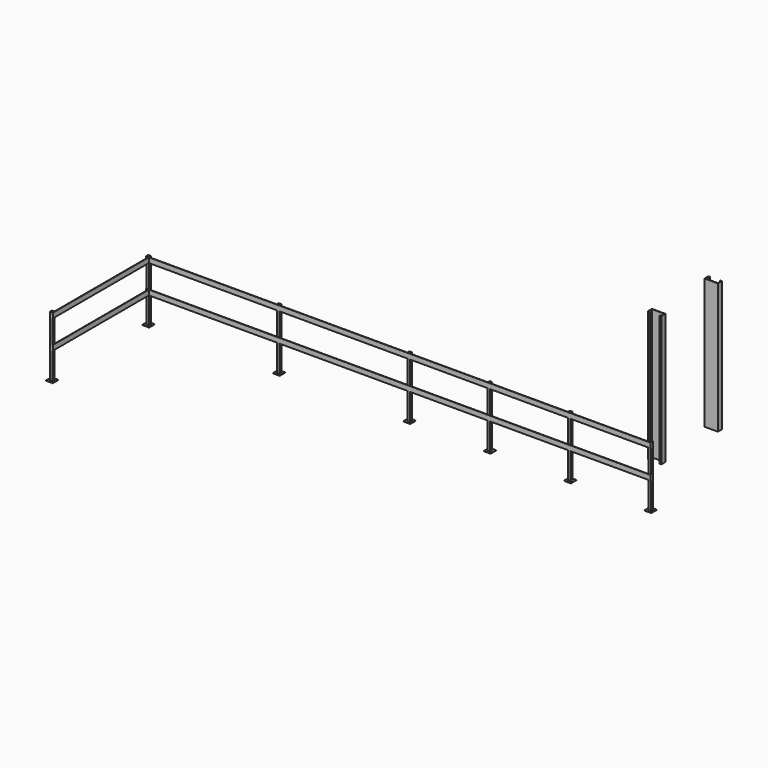
from build123d import *

# Parameters (mm, degrees)
F3_DEPTH  = 1981.2
F0_W      = 38.1
F0_H      = 38.1
F0_W_2    = 31.75
F0_H_2    = 31.75
F4_DEPTH  = 914.4
F5_W      = 101.6
F5_H      = 101.6
F6_DEPTH  = 6.35
F8_W      = 7658.1
F8_H      = 76.2
F9_DEPTH  = 6.35
F11_W     = 1822.45
F11_H     = 76.2
F12_DEPTH = 6.35


with BuildPart() as f3:
    # F2 (on offset) → F3 (new body)
    with BuildSketch(Plane.XY.offset(609.6)):
        Polygon((-76.2, 76.2), (-76.2, 82.55), (-95.25, 82.55), (-95.25, 146.05), (95.25, 146.05), (95.25, 82.55), (76.2, 82.55), (76.2, 76.2), (101.6, 76.2), (101.6, 152.4), (-101.6, 152.4), (-101.6, 76.2), align=None)
        Polygon((101.6, 1149.35), (101.6, 1225.55), (76.2, 1225.55), (76.2, 1219.2), (95.25, 1219.2), (95.25, 1155.7), (-95.25, 1155.7), (-95.25, 1219.2), (-76.2, 1219.2), (-76.2, 1225.55), (-101.6, 1225.55), (-101.6, 1149.35), align=None)
    extrude(amount=F3_DEPTH)


with BuildPart() as f4:
    # F0 (on Top) → F4 (new body)
    with BuildSketch(Plane.XY):
        with Locations((-7620, -1828.8)):
            Rectangle(F0_W, F0_H)
        with Locations((-7620, -1828.8)):
            Rectangle(F0_W_2, F0_H_2, mode=Mode.SUBTRACT)
        with Locations((-7620, 0)):
            Rectangle(F0_W, F0_H)
        with Locations((-7620, 0)):
            Rectangle(F0_W_2, F0_H_2, mode=Mode.SUBTRACT)
        with Locations((-5638.8, 0)):
            Rectangle(F0_W, F0_H)
        with Locations((-5638.8, 0)):
            Rectangle(F0_W_2, F0_H_2, mode=Mode.SUBTRACT)
        with Locations((-3657.6, 0)):
            Rectangle(F0_W, F0_H)
        with Locations((-3657.6, 0)):
            Rectangle(F0_W_2, F0_H_2, mode=Mode.SUBTRACT)
        with Locations((-2438.4, 0)):
            Rectangle(F0_W, F0_H)
        with Locations((-2438.4, 0)):
            Rectangle(F0_W_2, F0_H_2, mode=Mode.SUBTRACT)
        with Locations((-1219.2, 0)):
            Rectangle(F0_W, F0_H)
        with Locations((-1219.2, 0)):
            Rectangle(F0_W_2, F0_H_2, mode=Mode.SUBTRACT)
        Rectangle(F0_W, F0_H)
        Rectangle(F0_W_2, F0_H_2, mode=Mode.SUBTRACT)
    extrude(amount=F4_DEPTH)


with BuildPart() as f6:
    # F5 (on Top) → F6 (new body)
    with BuildSketch(Plane.XY):
        Rectangle(F5_W, F5_H)
        with Locations((-1219.2, 0)):
            Rectangle(F5_W, F5_H)
        with Locations((-2438.4, 0)):
            Rectangle(F5_W, F5_H)
        with Locations((-3657.6, 0)):
            Rectangle(F5_W, F5_H)
        with Locations((-5638.8, 0)):
            Rectangle(F5_W, F5_H)
        with Locations((-7620, 0)):
            Rectangle(F5_W, F5_H)
        with Locations((-7620, -1828.8)):
            Rectangle(F5_W, F5_H)
    extrude(amount=-F6_DEPTH)


with BuildPart() as f9:
    # F8 (on offset) → F9 (new body)
    with BuildSketch(Plane.XZ.offset(19.05)):
        with Locations((-3810, 876.3)):
            Rectangle(F8_W, F8_H)
        with Locations((-3810, 444.5)):
            Rectangle(F8_W, F8_H)
    extrude(amount=F9_DEPTH)


with BuildPart() as f12:
    # F11 (on offset) → F12 (new body)
    with BuildSketch(Plane.YZ.offset(-7600.95)):
        with Locations((-936.625, 876.3)):
            Rectangle(F11_W, F11_H)
        with Locations((-936.625, 444.5)):
            Rectangle(F11_W, F11_H)
    extrude(amount=F12_DEPTH)


solid = Compound([f3.part, f4.part, f6.part, f9.part, f12.part])
